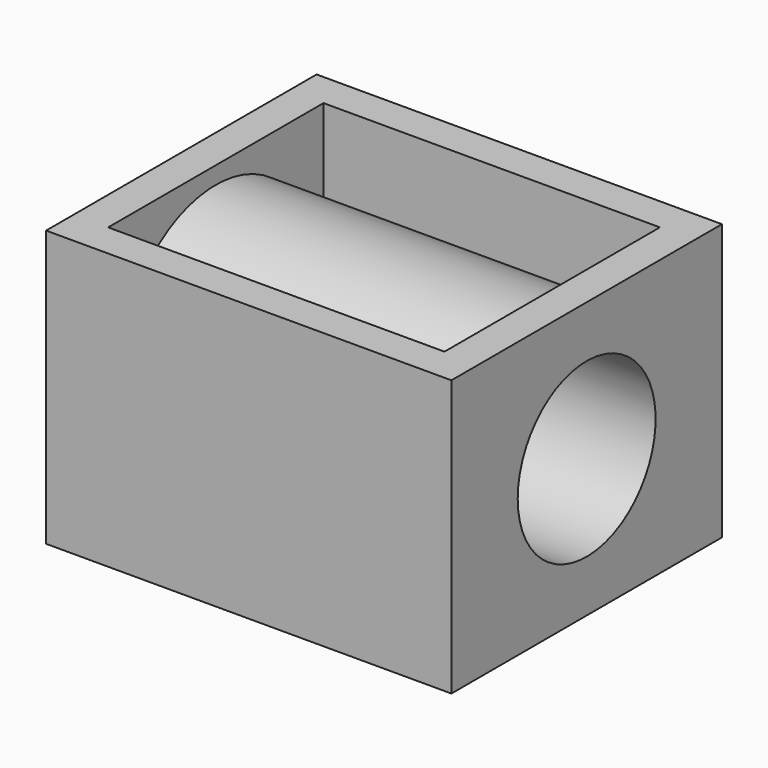
from build123d import *

# Parameters (mm, degrees)
F0_W     = 58.7917491794
F0_H     = 49.0446984768
F1_DEPTH = 40
F2_R     = 12.5
F3_DEPTH = 58.7917491794
F4_T     = -5


with BuildPart() as f1:
    # F0 (on Top) → F1 (new body)
    with BuildSketch(Plane.XY):
        with Locations((29.3958745897, 24.5223492384)):
            Rectangle(F0_W, F0_H)
    extrude(amount=F1_DEPTH)

    # F2 (on face) → F3 (cut, through all)
    with BuildSketch(Plane(origin=(0, 0, 0), x_dir=(0, -1, 0), z_dir=(-1, 0, 0))):
        with Locations((-24.5223492384, 20)):
            Circle(F2_R)
    extrude(amount=-F3_DEPTH, mode=Mode.SUBTRACT)

    # F4
    f4_openings = [f1.faces().sort_by_distance(p)[0] for p in [
        (29.395875, 24.522349, 40),
    ]]
    offset(amount=F4_T, openings=f4_openings, kind=Kind.INTERSECTION)


solid = f1.part
